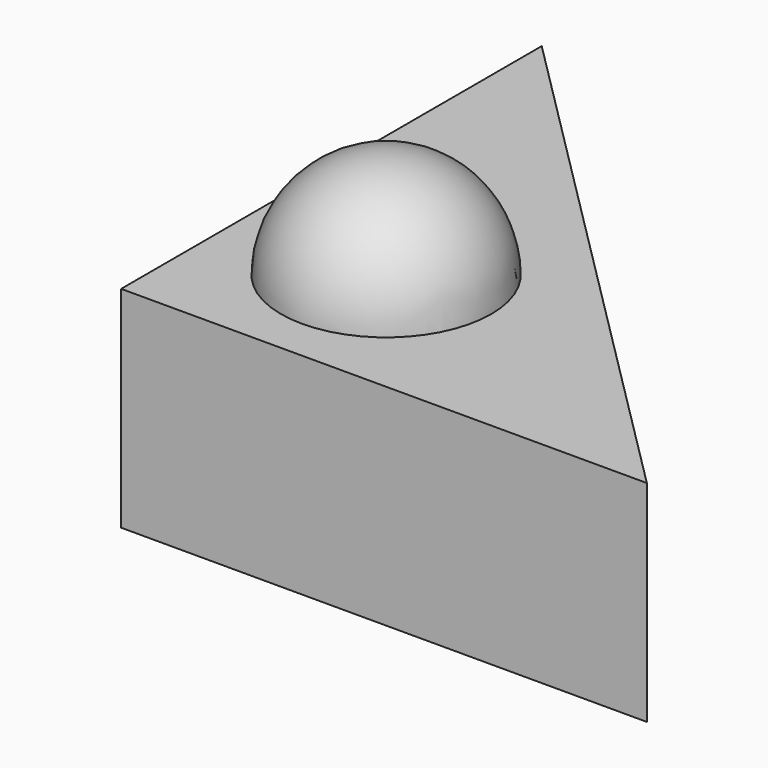
from build123d import *

# Parameters (mm, degrees)
F1_DEPTH = 20


with BuildPart() as f1:
    # F0 (on Top) → F1 (new body)
    with BuildSketch(Plane.XY):
        Polygon((0, 50), (0, 0), (50, 0), align=None)
    extrude(amount=F1_DEPTH)

    # F2 (on face) → F3 (revolve)
    with BuildSketch(Plane.XY.offset(20)):
        with BuildLine():
            Line((14, 4), (14, 24))
            ThreePointArc((14, 24), (4, 14), (14, 4))
        make_face()
    revolve(axis=Axis((14, 14, 20), (0, 1, 0)))


solid = f1.part
